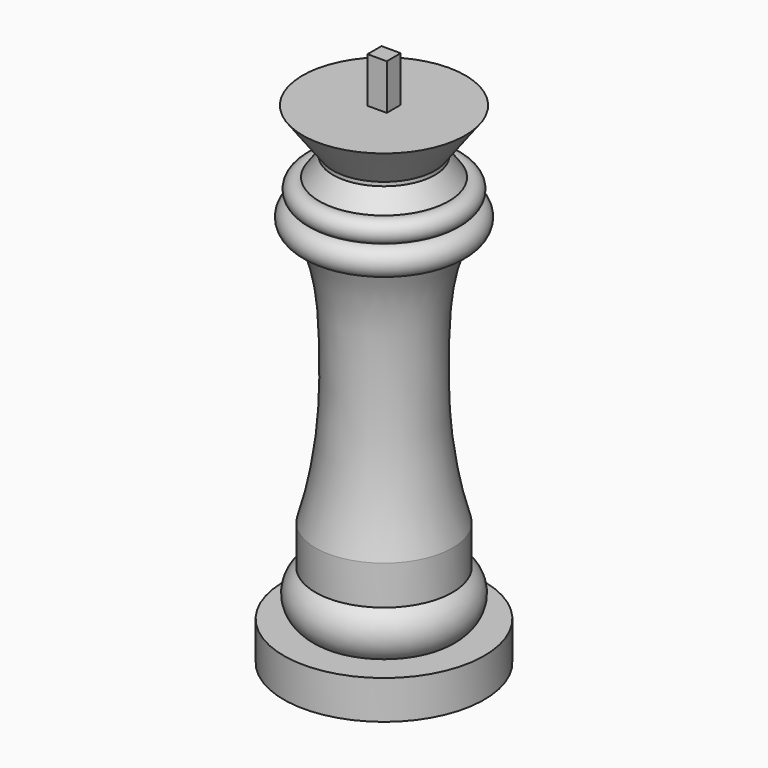
from build123d import *

# Parameters (mm, degrees)
F0_W     = 10.1794497028
F0_H     = 0.7724025938
F2_W     = 3.8478417757
F2_H     = 3.5
F3_DEPTH = 9.1


with BuildPart() as f1:
    # F0 (on Right) → F1 (revolve)
    with BuildSketch(Plane.YZ):
        with BuildLine():
            Line((-0.0319313937, 85.4962090044), (-0.0319313937, 0))
            Line((-0.0319313937, 0), (20.0332545325, 0))
            Line((20.0332545325, 0), (20.0332545325, 7.7266727535))
            Line((20.0332545325, 7.7266727535), (13.6856626113, 7.7266727535))
            ThreePointArc((13.6856626113, 7.7266727535), (16.0596551594, 12.2769448923), (13.6856626113, 16.8272170312))
            Line((13.6856626113, 16.8272170312), (13.6856626113, 24.6651616184))
            add(Edge.make_bspline(
                [(13.6856626113, 24.6651616184), (10.1666929892, 36.2177507062), (9.813779534, 56.4048678119), (10.7568159047, 69.6954480722), (13.6856626113, 75.7279531056)],
                knots=[0, 0, 0, 0, 0.5645728368, 1, 1, 1, 1], degree=3))
            ThreePointArc((13.6856626113, 75.7279531056), (16.9813315462, 78.0372975216), (14.6719871302, 81.3329664564))
            Line((14.6719871302, 81.3329664564), (14.3721235837, 81.3329664564))
            ThreePointArc((14.3721235837, 81.3329664564), (15.7180863922, 84.1270947855), (12.9473166824, 85.5205093742))
            ThreePointArc((12.9473166824, 85.5205093742), (12.9115033824, 85.5086636852), (12.8758972912, 85.4962090044))
            Line((12.8758972912, 85.4962090044), (-0.0319313937, 85.4962090044))
        make_face()
        with BuildLine():
            Line((0, 89.2275974062), (-0.0319313937, 85.4962090044))
            Line((-0.0319313937, 85.4962090044), (12.8758972912, 85.4962090044))
            ThreePointArc((12.8758972912, 85.4962090044), (12.9115033824, 85.5086636852), (12.9473166824, 85.5205093742))
            ThreePointArc((12.9473166824, 85.5205093742), (11.6016805763, 87.4026478187), (10.1794497028, 89.2275974062))
            Line((10.1794497028, 89.2275974062), (0, 89.2275974062))
        make_face()
        with Locations((5.0897248514, 89.6137987031)):
            Rectangle(F0_W, F0_H)
        Polygon((0.4750306252, 98.1656238437), (0, 90), (10.1794497028, 90), (16.2435658276, 98.1656238437), align=None)
    revolve(axis=Axis((0, -0.0319313937, 42.7481045022), (0, 0, -1)))

    # F2 (on face) → F3 (join)
    with BuildSketch(Plane.XY.offset(98.1656238437)):
        Rectangle(F2_W, F2_H)
    extrude(amount=F3_DEPTH)


solid = f1.part
